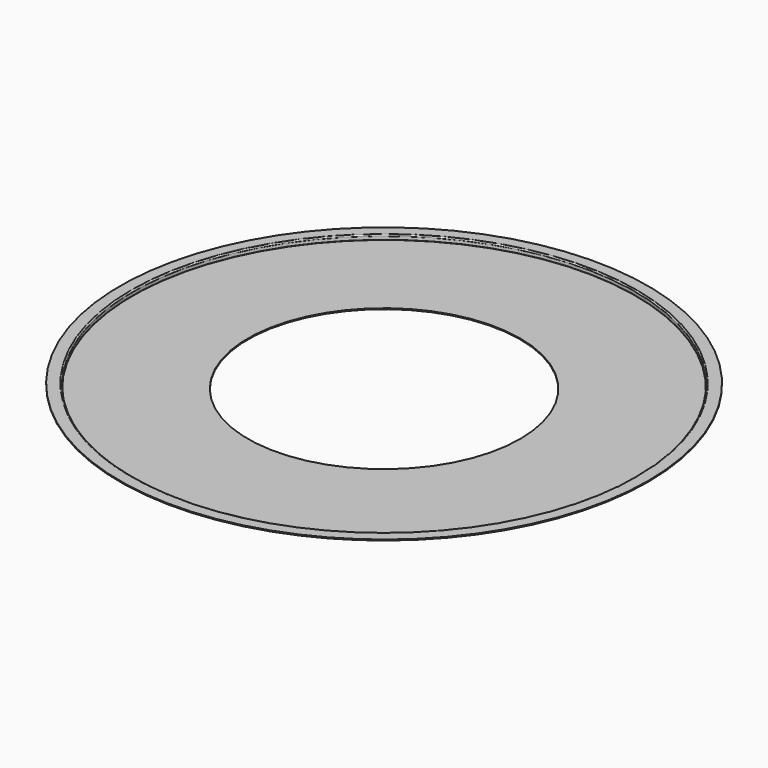
from build123d import *

# Parameters (mm, degrees)
F2_R     = 59.33948
F3_DEPTH = 25.4


with BuildPart() as f1:
    # F0 (on Front) → F1 (revolve)
    with BuildSketch(Plane.XZ):
        with BuildLine():
            Line((0, 0.414), (0, 0))
            Line((0, 0), (109.538073, 0))
            ThreePointArc((109.538073, 0), (109.89867, 0.149364), (110.048034, 0.509961))
            Line((110.048034, 0.509961), (110.048034, 1.878083))
            ThreePointArc((110.048034, 1.878083), (110.08374, 1.964284), (110.16994, 1.999989))
            Line((110.16994, 1.999989), (110.827769, 1.999989))
            Line((110.827769, 1.999989), (115.048034, 1.999989))
            Line((115.048034, 1.999989), (115.048034, 2.413989))
            Line((115.048034, 2.413989), (110.169929, 2.413989))
            ThreePointArc((110.169929, 2.413989), (109.790994, 2.257029), (109.634034, 1.878094))
            Line((109.634034, 1.878094), (109.634034, 0.509955))
            ThreePointArc((109.634034, 0.509955), (109.60593, 0.442105), (109.538079, 0.414))
            Line((109.538079, 0.414), (0, 0.414))
        make_face()
    revolve(axis=Axis((0, 0, 0.207), (0, 0, 1)))

    # F2 (on face) → F3 (cut)
    with BuildSketch(Plane.XY.offset(0.414)):
        Circle(F2_R)
    extrude(amount=-F3_DEPTH, mode=Mode.SUBTRACT)


solid = f1.part
